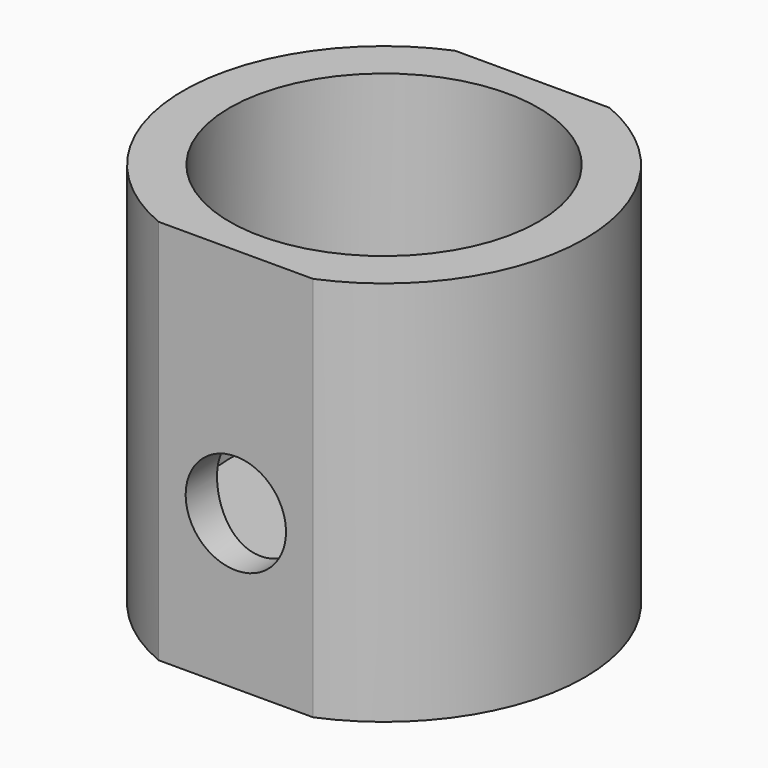
from build123d import *

# Parameters (mm, degrees)
F0_R     = 10
F1_DEPTH = 5
F2_DEPTH = 25
F4_D     = 6.5
F4_DEPTH = 12.001
F6_D     = 6.5


with BuildPart() as f1:
    # F0 (on Top) → F1 (new body)
    with BuildSketch(Plane.XY):
        with BuildLine():
            ThreePointArc((5, -12), (10.8166538264, -7.2111025509), (13, 0))
            ThreePointArc((13, 0), (10.8166538264, 7.2111025509), (5, 12))
            Line((5, 12), (-5, 12))
            ThreePointArc((-5, 12), (-13, 0), (-5, -12))
            Line((-5, -12), (5, -12))
        make_face()
        Circle(F0_R, mode=Mode.SUBTRACT)
        Circle(F0_R)
    extrude(amount=F1_DEPTH)

    # F0 (on Top) → F2 (join)
    with BuildSketch(Plane.XY):
        with BuildLine():
            ThreePointArc((5, -12), (10.8166538264, -7.2111025509), (13, 0))
            ThreePointArc((13, 0), (10.8166538264, 7.2111025509), (5, 12))
            Line((5, 12), (-5, 12))
            ThreePointArc((-5, 12), (-13, 0), (-5, -12))
            Line((-5, -12), (5, -12))
        make_face()
        Circle(F0_R, mode=Mode.SUBTRACT)
    extrude(amount=F2_DEPTH)

    # F4 (through all, one way)
    with BuildSketch(Plane.XZ):
        with Locations((0, 10)):
            Circle(F4_D / 2)
    extrude(amount=-F4_DEPTH, mode=Mode.SUBTRACT)

    # F6 (through all)
    with Locations(Plane(origin=(0, 0, 0), x_dir=(1, 0, 0), z_dir=(0, 1, 0))):
        with Locations((0, -10)):
            Hole(F6_D / 2)


solid = f1.part
